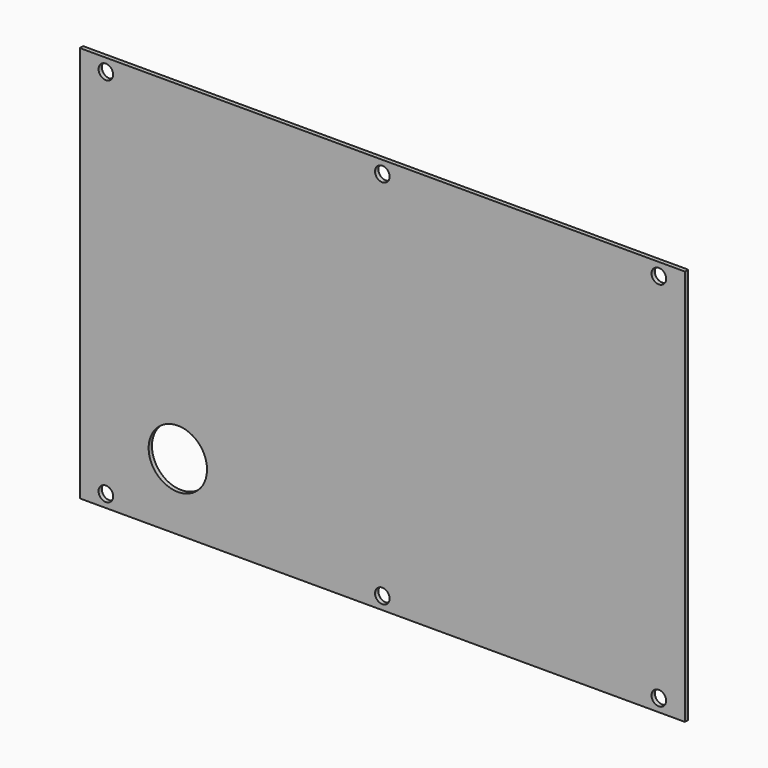
from build123d import *

# Parameters (mm, degrees)
F0_W     = 290
F0_H     = 190
F1_DEPTH = 2
F3_D     = 7
F4_W     = 262
F4_H     = 162
F4_W_2   = 260
F4_H_2   = 160
F5_DEPTH = 0.2
F7_D     = 28


with BuildPart() as f1:
    # F0 (on Front) → F1 (new body)
    with BuildSketch(Plane.XZ):
        with Locations((36.382314, 28.64574)):
            Rectangle(F0_W, F0_H)
    extrude(amount=F1_DEPTH)

    # F3 (through all)
    with Locations(Plane.XZ.offset(2)):
        with Locations((-96.117686, 117.64574), (36.382314, 117.64574), (168.882314, 117.64574), (168.882314, -60.35426), (36.382314, -60.35426), (-96.117686, -60.35426)):
            Hole(F3_D / 2)

    # F4 (on face) → F5 (cut)
    with BuildSketch(Plane.XZ):
        with Locations((36.382314, 28.64574)):
            Rectangle(F4_W, F4_H)
        with Locations((36.382314, 28.64574)):
            Rectangle(F4_W_2, F4_H_2, mode=Mode.SUBTRACT)
    extrude(amount=F5_DEPTH, mode=Mode.SUBTRACT)

    # F7 (through all)
    with Locations(Plane.XZ.offset(2)):
        with Locations((-61.617686, -34.35426)):
            Hole(F7_D / 2)


solid = f1.part
